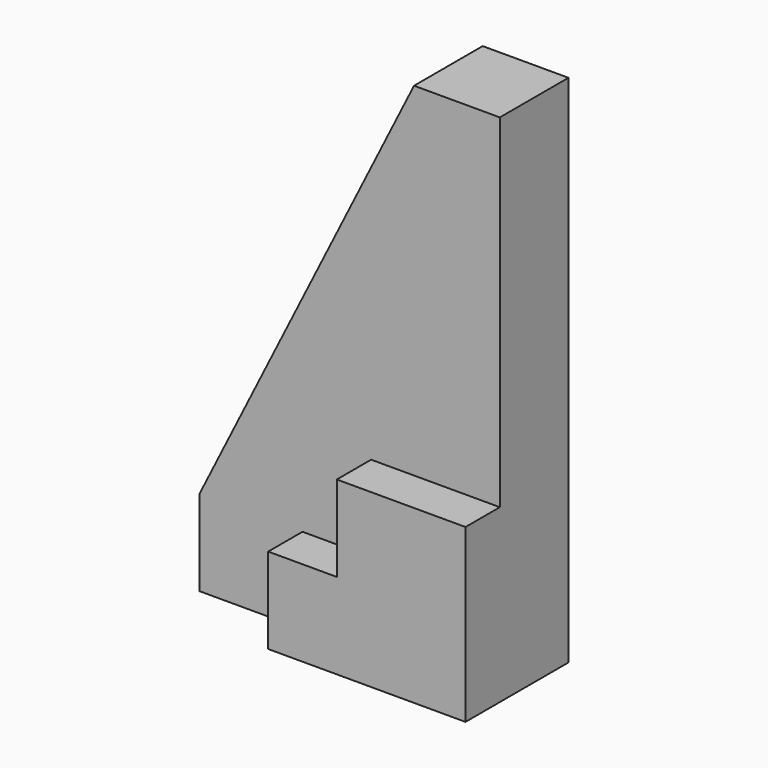
from build123d import *

# Parameters (mm, degrees)
F1_DEPTH = 10
F3_DEPTH = 5


with BuildPart() as f1:
    # F0 (on Front) → F1 (new body)
    with BuildSketch(Plane.XZ):
        Polygon((-54.090908, 0), (-19.090908, 0), (-19.090908, 60), (-29.090908, 60), (-54.090908, 10), align=None)
        Polygon((-54.090908, 0), (-19.090908, 0), (-19.090908, 60), (-29.090908, 60), (-54.090908, 10), align=None)
    extrude(amount=F1_DEPTH)

    # F2 (on face) → F3 (join)
    with BuildSketch(Plane.XZ.offset(10)):
        Polygon((-19.090908, 0), (-19.090908, 20), (-34.090908, 20), (-34.090908, 10), (-42.090908, 10), (-42.090908, 0), align=None)
    extrude(amount=F3_DEPTH)


solid = f1.part
